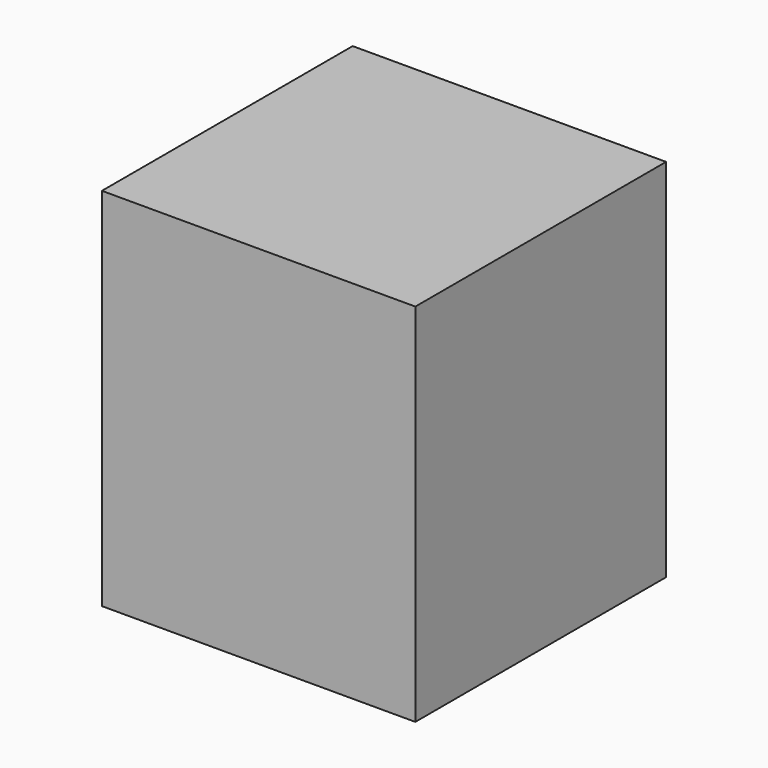
from build123d import *

# Parameters (mm, degrees)
F0_W      = 76.2
F0_H      = 76.2
F1_DEPTH  = 38.1
F1_FACE_W = 76.2
F1_FACE_H = 76.2
F2_DEPTH  = 12.7


with BuildPart() as f1:
    # F0 (on Front) → F1 (new body, symmetric)
    with BuildSketch(Plane.XZ):
        with Locations((6.628735, -1.284519)):
            Rectangle(F0_W, F0_H)
    extrude(amount=F1_DEPTH, both=True)

    # F1_face (on face) → F2 (join, symmetric)
    with BuildSketch(Plane(origin=(6.628735, 0, 36.815481), x_dir=(1, 0, 0), z_dir=(0, 0, 1))):
        Rectangle(F1_FACE_W, F1_FACE_H)
    extrude(amount=F2_DEPTH, both=True)


solid = f1.part
